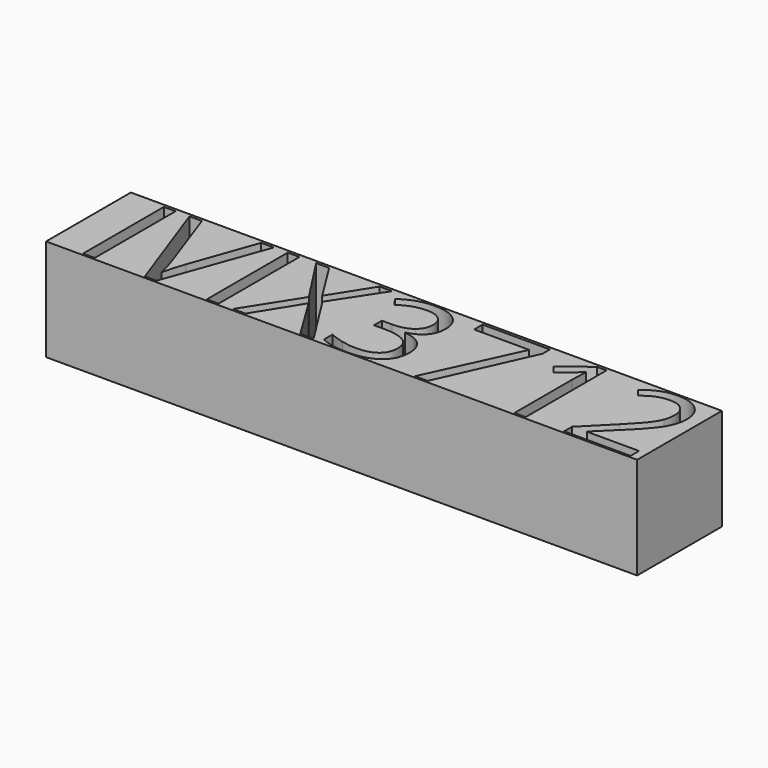
from build123d import *

# Parameters (mm, degrees)
F0_W     = 145
F0_H     = 26
F0_W_2   = 2.8837425812
F0_H_2   = 24.8132200628
F1_DEPTH = 25


with BuildPart() as f1:
    # F0 (on Top) → F1 (new body)
    with BuildSketch(Plane.XY):
        with Locations((13.2160319388, 13)):
            Rectangle(F0_W, F0_H)
        with Locations((-49.1691383017, 12.881589666)):
            Rectangle(F0_W_2, F0_H_2, mode=Mode.SUBTRACT)
        with BuildLine():
            Line((-32.417906679, 9.3325769037), (-26.7481755025, 25.2881996974))
            Line((-26.7481755025, 25.2881996974), (-23.6472018417, 25.2881996974))
            Line((-23.6472018417, 25.2881996974), (-32.5862607657, 0.4749796346))
            Line((-32.5862607657, 0.4749796346), (-35.4374186849, 0.4749796346))
            Line((-35.4374186849, 0.4749796346), (-44.3330313929, 25.2881996974))
            Line((-44.3330313929, 25.2881996974), (-41.2755039481, 25.2881996974))
            Line((-41.2755039481, 25.2881996974), (-35.5731881096, 9.2348229179))
            add(Edge.make_bspline(
                [(-35.5731881096, 9.2348229179), (-34.5902174746, 6.4651266535), (-34.0145551138, 3.8529229218)],
                knots=[0, 0, 0, 1, 1, 1], degree=2))
            add(Edge.make_bspline(
                [(-34.0145551138, 3.8529229218), (-33.400877314, 6.6008960782), (-32.417906679, 9.3325769037)],
                knots=[0, 0, 0, 1, 1, 1], degree=2))
        make_face(mode=Mode.SUBTRACT)
        with Locations((-18.7948026021, 12.881589666)):
            Rectangle(F0_W_2, F0_H_2, mode=Mode.SUBTRACT)
        Polygon((-2.3151098289, 13.5414290702), (5.9668250794, 0.4749796346), (2.692066555, 0.4749796346), (-3.9769275875, 11.3854106055), (-10.7653988238, 0.4749796346), (-13.8229262686, 0.4749796346), (-5.5735760223, 13.4436750844), (-13.2635562387, 25.2881996974), (-10.0702593692, 25.2881996974), (-3.9117582636, 15.4584933473), (2.3010506118, 25.2881996974), (5.3694396106, 25.2881996974), align=None, mode=Mode.SUBTRACT)
        with BuildLine():
            add(Edge.make_bspline(
                [(21.1730006487, 23.9875286086), (23.1769573576, 22.3338570154), (23.1769573576, 19.4501144342)],
                knots=[0, 0, 0, 1, 1, 1], degree=2))
            add(Edge.make_bspline(
                [(23.1769573576, 19.4501144342), (23.1769573576, 17.071434113), (21.8437016068, 15.5616781101)],
                knots=[0, 0, 0, 1, 1, 1], degree=2))
            add(Edge.make_bspline(
                [(21.8437016068, 15.5616781101), (20.510445856, 14.0519221071), (18.0665962109, 13.5414290702)],
                knots=[0, 0, 0, 1, 1, 1], degree=2))
            Line((18.0665962109, 13.5414290702), (18.0665962109, 13.4056596454))
            add(Edge.make_bspline(
                [(18.0665962109, 13.4056596454), (21.0535235549, 13.0363668102), (22.4953948455, 11.5076030878)],
                knots=[0, 0, 0, 1, 1, 1], degree=2))
            add(Edge.make_bspline(
                [(22.4953948455, 11.5076030878), (23.9372661361, 9.9788393654), (23.9372661361, 7.5024050584)],
                knots=[0, 0, 0, 1, 1, 1], degree=2))
            add(Edge.make_bspline(
                [(23.9372661361, 7.5024050584), (23.9372661361, 3.9561076845), (21.47712416, 2.0444741844)],
                knots=[0, 0, 0, 1, 1, 1], degree=2))
            add(Edge.make_bspline(
                [(21.47712416, 2.0444741844), (19.016982184, 0.1328406843), (14.4877141752, 0.1328406843)],
                knots=[0, 0, 0, 1, 1, 1], degree=2))
            add(Edge.make_bspline(
                [(14.4877141752, 0.1328406843), (12.5163421282, 0.1328406843), (10.878962866, 0.4315334187)],
                knots=[0, 0, 0, 1, 1, 1], degree=2))
            add(Edge.make_bspline(
                [(10.878962866, 0.4315334187), (9.2415836038, 0.7302261531), (7.6992429389, 1.4742426006)],
                knots=[0, 0, 0, 1, 1, 1], degree=2))
            Line((7.6992429389, 1.4742426006), (7.6992429389, 4.1570464331))
            add(Edge.make_bspline(
                [(7.6992429389, 4.1570464331), (9.3121837046, 3.3587222158), (11.1369247729, 2.9432677761)],
                knots=[0, 0, 0, 1, 1, 1], degree=2))
            add(Edge.make_bspline(
                [(11.1369247729, 2.9432677761), (12.9616658413, 2.5278133364), (14.590898938, 2.5278133364)],
                knots=[0, 0, 0, 1, 1, 1], degree=2))
            add(Edge.make_bspline(
                [(14.590898938, 2.5278133364), (21.020938893, 2.5278133364), (21.020938893, 7.5675743822)],
                knots=[0, 0, 0, 1, 1, 1], degree=2))
            add(Edge.make_bspline(
                [(21.020938893, 7.5675743822), (21.020938893, 12.0859808371), (13.9283441453, 12.0859808371)],
                knots=[0, 0, 0, 1, 1, 1], degree=2))
            Line((13.9283441453, 12.0859808371), (11.4844945002, 12.0859808371))
            Line((11.4844945002, 12.0859808371), (11.4844945002, 14.5081073742))
            Line((11.4844945002, 14.5081073742), (13.9609288072, 14.5081073742))
            add(Edge.make_bspline(
                [(13.9609288072, 14.5081073742), (16.8609637194, 14.5081073742), (18.5580815284, 15.7897707436)],
                knots=[0, 0, 0, 1, 1, 1], degree=2))
            add(Edge.make_bspline(
                [(18.5580815284, 15.7897707436), (20.2551993375, 17.071434113), (20.2551993375, 19.3469296714)],
                knots=[0, 0, 0, 1, 1, 1], degree=2))
            add(Edge.make_bspline(
                [(20.2551993375, 19.3469296714), (20.2551993375, 21.1608091858), (19.0088360185, 22.1980875907)],
                knots=[0, 0, 0, 1, 1, 1], degree=2))
            add(Edge.make_bspline(
                [(19.0088360185, 22.1980875907), (17.7624726995, 23.2353659956), (15.6227465659, 23.2353659956)],
                knots=[0, 0, 0, 1, 1, 1], degree=2))
            add(Edge.make_bspline(
                [(15.6227465659, 23.2353659956), (13.9935134692, 23.2353659956), (12.5516421786, 22.792757671)],
                knots=[0, 0, 0, 1, 1, 1], degree=2))
            add(Edge.make_bspline(
                [(12.5516421786, 22.792757671), (11.109770888, 22.3501493464), (9.2578759347, 21.1608091858)],
                knots=[0, 0, 0, 1, 1, 1], degree=2))
            Line((9.2578759347, 21.1608091858), (7.8350123636, 23.0615811319))
            add(Edge.make_bspline(
                [(7.8350123636, 23.0615811319), (9.3610606975, 24.2672136235), (11.3541558525, 24.9542069126)],
                knots=[0, 0, 0, 1, 1, 1], degree=2))
            add(Edge.make_bspline(
                [(11.3541558525, 24.9542069126), (13.3472510075, 25.6412002017), (15.557577242, 25.6412002017)],
                knots=[0, 0, 0, 1, 1, 1], degree=2))
            add(Edge.make_bspline(
                [(15.557577242, 25.6412002017), (19.1690439397, 25.6412002017), (21.1730006487, 23.9875286086)],
                knots=[0, 0, 0, 1, 1, 1], degree=2))
        make_face(mode=Mode.SUBTRACT)
        Polygon((33.9353265729, 0.4749796346), (30.8126298042, 0.4749796346), (41.0930906444, 22.6922882967), (27.5704559417, 22.6922882967), (27.5704559417, 25.2881996974), (44.0800179883, 25.2881996974), (44.0800179883, 23.02899647), align=None, mode=Mode.SUBTRACT)
        with BuildLine():
            Line((57.9773763033, 25.2881996974), (57.9773763033, 0.4749796346))
            Line((57.9773763033, 0.4749796346), (55.2294031468, 0.4749796346))
            Line((55.2294031468, 0.4749796346), (55.2294031468, 18.1575895108))
            add(Edge.make_bspline(
                [(55.2294031468, 18.1575895108), (55.2294031468, 20.3679157454), (55.3651725715, 22.3338570154)],
                knots=[0, 0, 0, 1, 1, 1], degree=2))
            add(Edge.make_bspline(
                [(55.3651725715, 22.3338570154), (55.0121720672, 21.9754257341), (54.5695637426, 21.5871251794)],
                knots=[0, 0, 0, 1, 1, 1], degree=2))
            add(Edge.make_bspline(
                [(54.5695637426, 21.5871251794), (54.126955418, 21.1988246247), (50.5317810513, 18.2770666046)],
                knots=[0, 0, 0, 1, 1, 1], degree=2))
            Line((50.5317810513, 18.2770666046), (49.0383173793, 20.2104232127))
            Line((49.0383173793, 20.2104232127), (55.6041267591, 25.2881996974))
            Line((55.6041267591, 25.2881996974), (57.9773763033, 25.2881996974))
        make_face(mode=Mode.SUBTRACT)
        with BuildLine():
            Line((83.7246900082, 3.0871833663), (83.7246900082, 0.4749796346))
            Line((83.7246900082, 0.4749796346), (67.4160667102, 0.4749796346))
            Line((67.4160667102, 0.4749796346), (67.4160667102, 2.9025369487))
            Line((67.4160667102, 2.9025369487), (73.949291428, 9.4683463284))
            add(Edge.make_bspline(
                [(73.949291428, 9.4683463284), (76.9362187719, 12.4932891113), (77.886604745, 13.7830986462)],
                knots=[0, 0, 0, 1, 1, 1], degree=2))
            add(Edge.make_bspline(
                [(77.886604745, 13.7830986462), (78.8369907181, 15.0729081811), (79.3121837046, 16.2948330036)],
                knots=[0, 0, 0, 1, 1, 1], degree=2))
            add(Edge.make_bspline(
                [(79.3121837046, 16.2948330036), (79.7873766912, 17.5167578261), (79.7873766912, 18.9233290663)],
                knots=[0, 0, 0, 1, 1, 1], degree=2))
            add(Edge.make_bspline(
                [(79.7873766912, 18.9233290663), (79.7873766912, 20.9109934443), (78.5817441996, 22.0731797199)],
                knots=[0, 0, 0, 1, 1, 1], degree=2))
            add(Edge.make_bspline(
                [(78.5817441996, 22.0731797199), (77.376111708, 23.2353659956), (75.2363855744, 23.2353659956)],
                knots=[0, 0, 0, 1, 1, 1], degree=2))
            add(Edge.make_bspline(
                [(75.2363855744, 23.2353659956), (73.6940449095, 23.2353659956), (72.3091967773, 22.7248729586)],
                knots=[0, 0, 0, 1, 1, 1], degree=2))
            add(Edge.make_bspline(
                [(72.3091967773, 22.7248729586), (70.9243486451, 22.2143799216), (69.2299462245, 20.8729780054)],
                knots=[0, 0, 0, 1, 1, 1], degree=2))
            Line((69.2299462245, 20.8729780054), (67.7364825525, 22.7900422825))
            add(Edge.make_bspline(
                [(67.7364825525, 22.7900422825), (71.1633028326, 25.6412002017), (75.2038009124, 25.6412002017)],
                knots=[0, 0, 0, 1, 1, 1], degree=2))
            add(Edge.make_bspline(
                [(75.2038009124, 25.6412002017), (78.7012212934, 25.6412002017), (80.6861702829, 23.8517591838)],
                knots=[0, 0, 0, 1, 1, 1], degree=2))
            add(Edge.make_bspline(
                [(80.6861702829, 23.8517591838), (82.6711192723, 22.0623181659), (82.6711192723, 19.0428061601)],
                knots=[0, 0, 0, 1, 1, 1], degree=2))
            add(Edge.make_bspline(
                [(82.6711192723, 19.0428061601), (82.6711192723, 16.6804181698), (81.346009687, 14.3723379495)],
                knots=[0, 0, 0, 1, 1, 1], degree=2))
            add(Edge.make_bspline(
                [(81.346009687, 14.3723379495), (80.0209001017, 12.0642577292), (76.393141073, 8.5342526863)],
                knots=[0, 0, 0, 1, 1, 1], degree=2))
            Line((76.393141073, 8.5342526863), (70.962364084, 3.222952791))
            Line((70.962364084, 3.222952791), (70.962364084, 3.0871833663))
            Line((70.962364084, 3.0871833663), (83.7246900082, 3.0871833663))
        make_face(mode=Mode.SUBTRACT)
    extrude(amount=F1_DEPTH)


solid = f1.part
